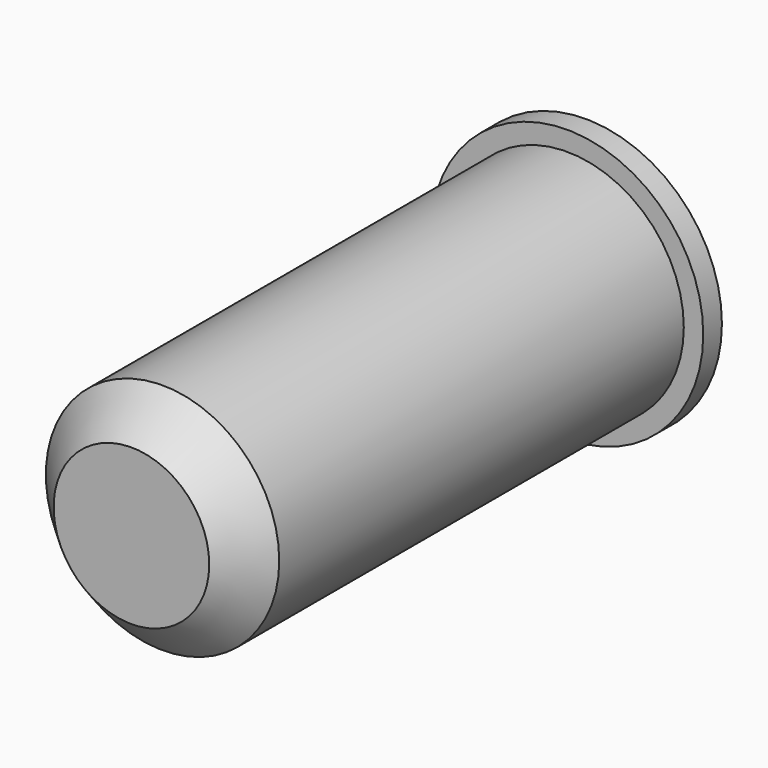
from build123d import *

# Parameters (mm, degrees)
F0_R     = 3.81
F1_DEPTH = 17.78
F2_R     = 4.445
F3_DEPTH = 0.762
F4_SIZE  = 1.27


with BuildPart() as f1:
    # F0 (on Front) → F1 (new body)
    with BuildSketch(Plane.XZ):
        Circle(F0_R)
    extrude(amount=F1_DEPTH)

    # F2 (on Front) → F3 (join)
    with BuildSketch(Plane.XZ):
        Circle(F2_R)
    extrude(amount=-F3_DEPTH)

    # F4
    f4_edges = [f1.edges().sort_by_distance(p)[0] for p in [
        (-3.81, -17.78, 0),
    ]]
    chamfer(f4_edges, length=F4_SIZE)


solid = f1.part
